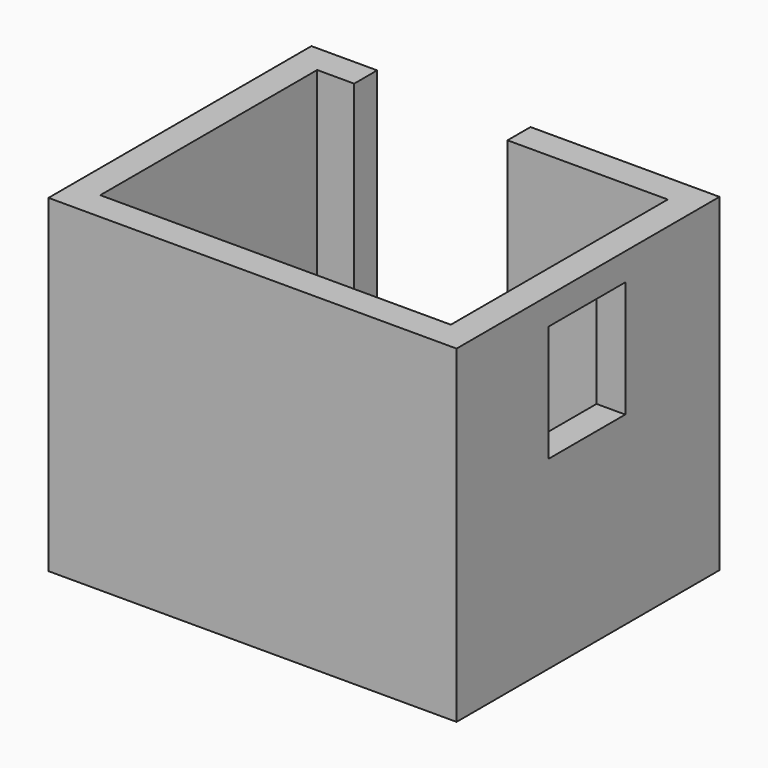
from build123d import *

# Parameters (mm, degrees)
F3_DEPTH   = 240
F5_DEPTH   = 20
F6_W       = 112
F6_H       = 241.106075
F7_DEPTH   = 25
F8_W       = 70.001994
F8_H       = 85
F9_DEPTH   = 25
F10_W      = 50
F10_H      = 198.001994
F11_DEPTH  = 50
F12_DEPTH  = 25
F11_FACE_W = 50
F11_FACE_H = 198.001994
F13_DEPTH  = 70.001


with BuildPart() as f3:
    # F2 (on face) → F3 (new body)
    with BuildSketch(Plane.XY):
        Polygon((-627, -343.001994), (-627, -273), (-627, -187), (-765, -187), (-877, -187), (-925, -187), (-925, -427.001994), (-627, -427.001994), align=None)
        Polygon((-765, -208), (-648, -208), (-648, -273), (-648, -343.001994), (-648, -406.001994), (-904, -406.001994), (-904, -208), (-877, -208), align=None, mode=Mode.SUBTRACT)
    extrude(amount=F3_DEPTH)

    # F4 (on face) → F5 (join)
    with BuildSketch(Plane.XY):
        Polygon((-648, -273), (-648, -208), (-765, -208), (-877, -208), (-904, -208), (-904, -406.001994), (-648, -406.001994), (-648, -343.001994), align=None)
    extrude(amount=F5_DEPTH)

    # F6 (on face) → F7 (cut)
    with BuildSketch(Plane(origin=(0, -187, 0), x_dir=(-1, 0, 0), z_dir=(0, 1, 0))):
        with Locations((821, 140.553037)):
            Rectangle(F6_W, F6_H)
    extrude(amount=-F7_DEPTH, mode=Mode.SUBTRACT)

    # F8 (on face) → F9 (cut)
    with BuildSketch(Plane.YZ.offset(-627)):
        with Locations((-308.000997, 177.5)):
            Rectangle(F8_W, F8_H)
    extrude(amount=-F9_DEPTH, mode=Mode.SUBTRACT)

    # F10 (on face) → F11 (join)
    with BuildSketch(Plane.XY.offset(20)):
        with Locations((-673, -307.000997)):
            Rectangle(F10_W, F10_H)
    extrude(amount=F11_DEPTH)

    # F7_face (on face) → F12 (cut)
    with BuildSketch(Plane(origin=(-777.995456, -302.145343, 20), x_dir=(1, 0, 0), z_dir=(0, 0, 1))):
        Polygon((12.995456, 115.145343), (-99.004544, 115.145343), (-99.004544, 94.145343), (-126.004544, 94.145343), (-126.004544, -103.856651), (79.995456, -103.856651), (79.995456, 94.145343), (12.995456, 94.145343), align=None)
    extrude(amount=-F12_DEPTH, mode=Mode.SUBTRACT)

    # F11_face (on face) → F13 (cut, through all)
    with BuildSketch(Plane(origin=(-673, -307.000997, 70), x_dir=(1, 0, 0), z_dir=(0, 0, 1))):
        Rectangle(F11_FACE_W, F11_FACE_H)
    extrude(amount=-F13_DEPTH, mode=Mode.SUBTRACT)


solid = f3.part
